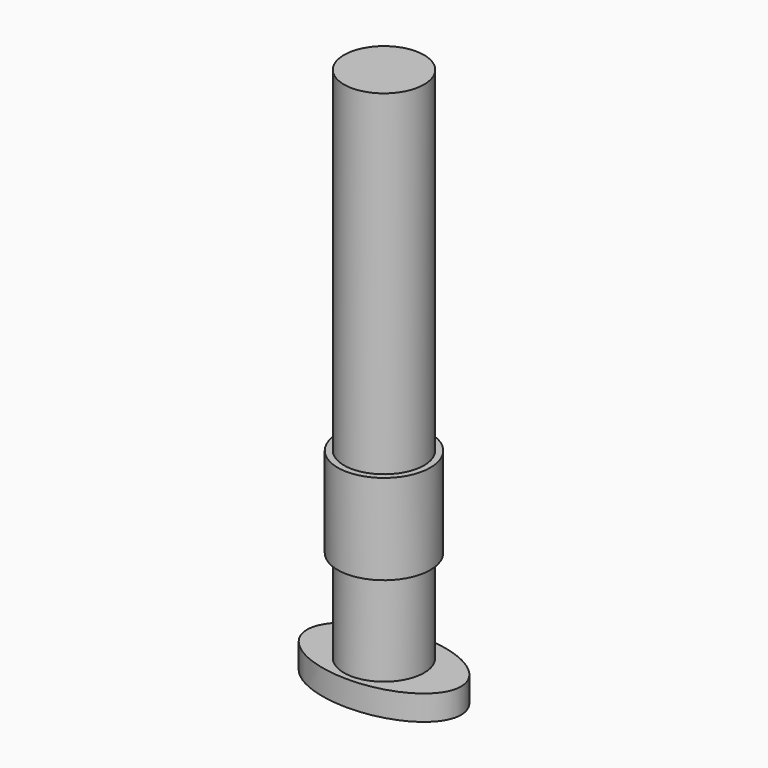
from build123d import *

# Parameters (mm, degrees)
SKETCH021_R       = 16
PAD014_DEPTH      = 200
PAD014_DEPTH_BACK = 10
PAD015_DEPTH      = 10
SKETCH023_R       = 18.5
PAD016_DEPTH      = 36


with BuildPart() as part:
    # Sketch021 → Pad014 (new body, two sides)
    with BuildSketch(Plane.XY) as pad014_sk:
        Circle(SKETCH021_R)
    extrude(amount=PAD014_DEPTH)
    extrude(pad014_sk.sketch, amount=-PAD014_DEPTH_BACK)

    # Sketch022 → Pad015 (join)
    with BuildSketch(Plane.XY.offset(-7)):
        with BuildLine():
            add(Edge.make_bspline(
                [(30.7863752332, 0), (30.7863752332, 31.7831323189), (-15.3931876166, 15.8915661594), (-61.5727504664, 0), (-15.3931876166, -15.8915661594), (30.7863752332, -31.7831323189), (30.7863752332, 0)],
                knots=[0, 0, 0, 2.0943951024, 2.0943951024, 4.1887902048, 4.1887902048, 6.2831853072, 6.2831853072, 6.2831853072], degree=2, weights=[1, 0.5, 1, 0.5, 1, 0.5, 1]))
        make_face()
    extrude(amount=-PAD015_DEPTH)

    # Sketch023 → Pad016 (join)
    with BuildSketch(Plane.XY.offset(30)):
        Circle(SKETCH023_R)
    extrude(amount=PAD016_DEPTH)


with BuildPart() as part_1:
    # Body004 placement: moved
    add(part.part.moved(Location((-127.28, -24, 0))))


solid = part_1.part
